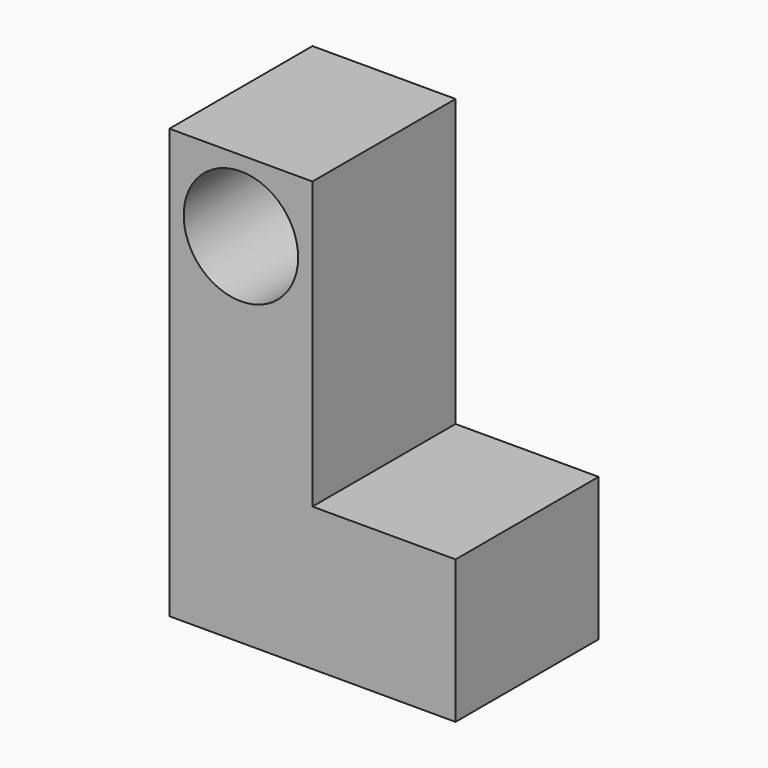
from build123d import *

# Parameters (mm, degrees)
F0_W     = 20
F0_H     = 25
F1_DEPTH = 60
F2_DEPTH = 20
F3_R     = 8
F4_DEPTH = 20


with BuildPart() as f1:
    # F0 (on Top) → F1 (new body)
    with BuildSketch(Plane.XY):
        with Locations((-10, 0)):
            Rectangle(F0_W, F0_H)
    extrude(amount=F1_DEPTH)

    # F0 (on Top) → F2 (join)
    with BuildSketch(Plane.XY):
        with Locations((10, 0)):
            Rectangle(F0_W, F0_H)
    extrude(amount=F2_DEPTH)

    # F3 (on face) → F4 (cut)
    with BuildSketch(Plane.XZ.offset(12.5)):
        with Locations((-10, 50)):
            Circle(F3_R)
    extrude(amount=-F4_DEPTH, mode=Mode.SUBTRACT)


solid = f1.part
